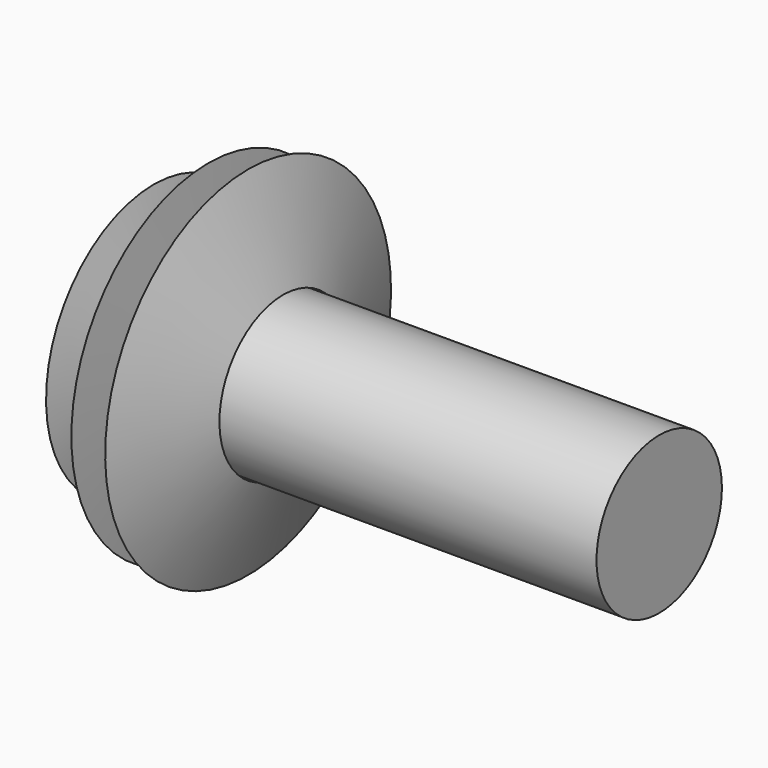
from build123d import *

# Parameters (mm, degrees)
F0_R     = 9.5
F1_DEPTH = 65


with BuildPart() as f1:
    # F0 (on Right) → F1 (new body)
    with BuildSketch(Plane.YZ):
        Circle(F0_R)
    extrude(amount=F1_DEPTH)


with BuildPart() as f3:
    # F2 (on Front) → F3 (revolve)
    with BuildSketch(Plane.XZ):
        Polygon((3.733155, 16.323945), (0, 9.514532), (19.407652, 9.643012), (15.16783, 21.655843), (11.120725, 9.643012), (10.349848, 20.756487), (5.403388, 9.643012), align=None)
    revolve(axis=Axis((0, 0, 0), (-1, 0, 0)))


solid = Compound([f1.part, f3.part])
